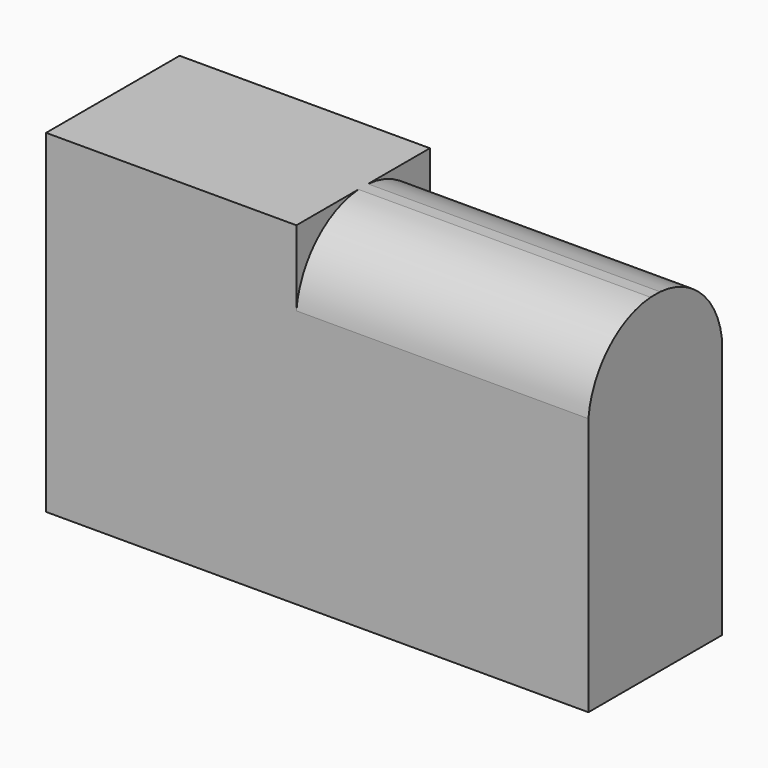
from build123d import *

# Parameters (mm, degrees)
F0_W     = 82.55
F0_H     = 50.8
F1_DEPTH = 25.4
F3_DEPTH = 44.45


with BuildPart() as f1:
    # F0 (on Front) → F1 (new body)
    with BuildSketch(Plane.XZ):
        with Locations((41.275, 25.4)):
            Rectangle(F0_W, F0_H)
    extrude(amount=F1_DEPTH)

    # F2 (on face) → F3 (cut)
    with BuildSketch(Plane.YZ.offset(82.55)):
        with BuildLine():
            ThreePointArc((-11.7674500498, 50.8), (-3.9212421239, 47.3670078254), (0, 39.7530552189))
            Line((0, 39.7530552189), (0, 50.8))
            Line((0, 50.8), (-11.7674500498, 50.8))
        make_face()
        with BuildLine():
            ThreePointArc((-25.4, 39.3390301804), (-21.5805387512, 47.2230923652), (-13.5835110199, 50.8))
            Line((-13.5835110199, 50.8), (-25.4, 50.8))
            Line((-25.4, 50.8), (-25.4, 39.3390301804))
        make_face()
    extrude(amount=-F3_DEPTH, mode=Mode.SUBTRACT)


solid = f1.part
